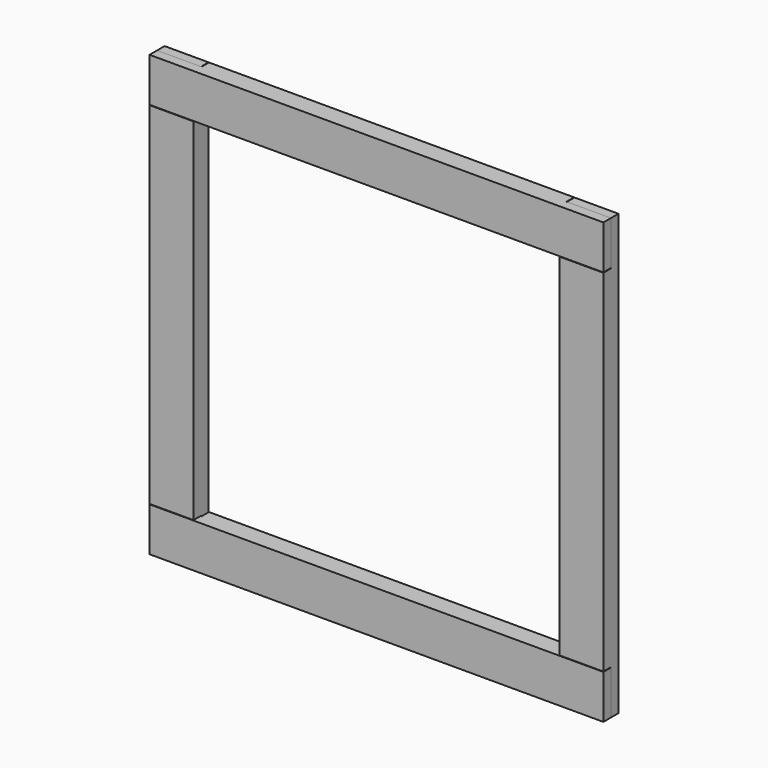
from build123d import *

# Parameters (mm, degrees)
F0_W      = 88.9
F0_H      = 889
F1_DEPTH  = 38.1
F2_W      = 88.9
F2_H      = 89.6874
F3_DEPTH  = 19.05
F4_W      = 88.9
F4_H      = 89.6874
F5_DEPTH  = 19.05
F6_W      = 88.9
F6_H      = 889
F7_DEPTH  = 38.1
F8_W      = 88.9
F8_H      = 89.6874
F9_DEPTH  = 19.05
F10_W     = 917.575
F10_H     = 88.9
F11_DEPTH = 19.05
F12_W     = 738.2002
F12_H     = 88.9
F13_DEPTH = 19.05
F14_W     = 917.575
F14_H     = 88.9
F15_DEPTH = 19.05
F16_W     = 738.2002
F16_H     = 88.9
F17_DEPTH = 19.05


with BuildPart() as f1:
    # F0 (on Front) → F1 (new body)
    with BuildSketch(Plane.XZ):
        with Locations((44.45, 444.5)):
            Rectangle(F0_W, F0_H)
    extrude(amount=-F1_DEPTH)

    # F2 (on face) → F3 (cut)
    with BuildSketch(Plane.XZ):
        with Locations((44.45, 844.1563)):
            Rectangle(F2_W, F2_H)
    extrude(amount=-F3_DEPTH, mode=Mode.SUBTRACT)

    # F4 (on face) → F5 (cut)
    with BuildSketch(Plane.XZ):
        with Locations((44.45, 44.8437)):
            Rectangle(F4_W, F4_H)
    extrude(amount=-F5_DEPTH, mode=Mode.SUBTRACT)


with BuildPart() as f7:
    # F6 (on Front) → F7 (new body)
    with BuildSketch(Plane.XZ):
        with Locations((873.125, 444.5)):
            Rectangle(F6_W, F6_H)
    extrude(amount=-F7_DEPTH)

    # F8 (on face) → F9 (cut)
    with BuildSketch(Plane.XZ):
        with Locations((873.125, 844.1563)):
            Rectangle(F8_W, F8_H)
        with Locations((873.125, 44.8437)):
            Rectangle(F8_W, F8_H)
    extrude(amount=-F9_DEPTH, mode=Mode.SUBTRACT)


with BuildPart() as f11:
    # F10 (on Front) → F11 (new body)
    with BuildSketch(Plane.XZ):
        with Locations((458.7875, 844.55)):
            Rectangle(F10_W, F10_H)
    extrude(amount=-F11_DEPTH)

    # F12 (on face) → F13 (join)
    with BuildSketch(Plane(origin=(0, 19.05, 0), x_dir=(-1, 0, 0), z_dir=(0, 1, 0))):
        with Locations((-458.7875, 844.55)):
            Rectangle(F12_W, F12_H)
    extrude(amount=F13_DEPTH)


with BuildPart() as f15:
    # F14 (on Front) → F15 (new body)
    with BuildSketch(Plane.XZ):
        with Locations((458.7875, 44.45)):
            Rectangle(F14_W, F14_H)
    extrude(amount=-F15_DEPTH)

    # F16 (on face) → F17 (join)
    with BuildSketch(Plane(origin=(0, 19.05, 0), x_dir=(-1, 0, 0), z_dir=(0, 1, 0))):
        with Locations((-458.7875, 44.45)):
            Rectangle(F16_W, F16_H)
    extrude(amount=F17_DEPTH)


solid = Compound([f1.part, f7.part, f11.part, f15.part])
